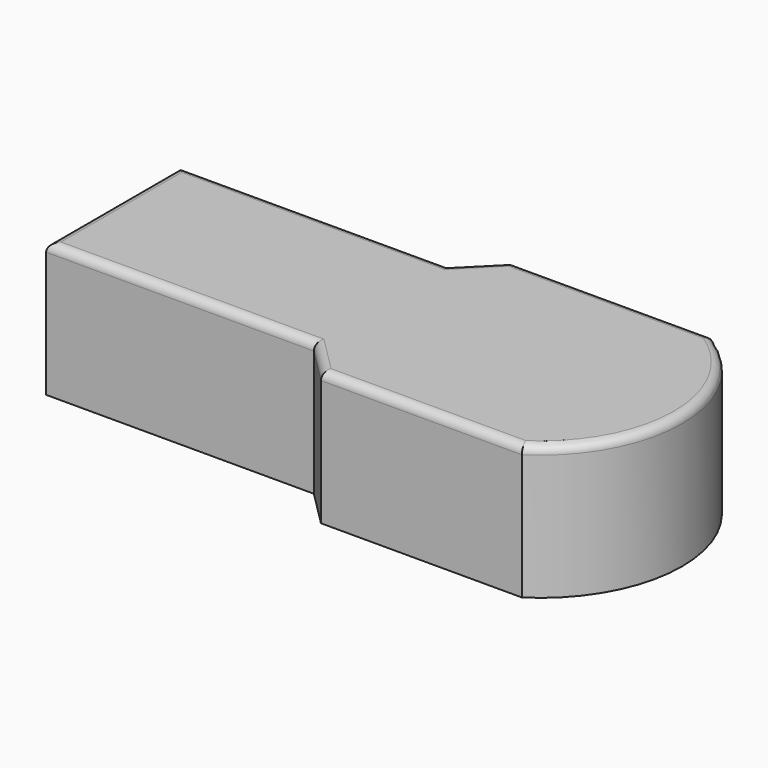
from build123d import *

# Parameters (mm, degrees)
F1_DEPTH = 25.4
F2_R     = 1.5748


with BuildPart() as f1:
    # F0 (on Top) → F1 (new body)
    with BuildSketch(Plane.XY):
        with BuildLine():
            Line((-41.113433, 16.30855), (-41.113433, -15.44145))
            Line((-41.113433, -15.44145), (9.686567, -15.44145))
            Line((9.686567, -15.44145), (16.421759, -22.176642))
            Line((16.421759, -22.176642), (54.521759, -22.176642))
            ThreePointArc((54.521759, -22.176642), (66.836567, 0.43355), (54.521759, 23.043742))
            Line((54.521759, 23.043742), (16.421759, 23.043742))
            Line((16.421759, 23.043742), (9.686567, 16.30855))
            Line((9.686567, 16.30855), (-41.113433, 16.30855))
        make_face()
    extrude(amount=F1_DEPTH)

    # F2
    f2_edges = [f1.edges().sort_by_distance(p)[0] for p in [
        (35.471759, 23.043742, 25.4),
        (13.054163, 19.676146, 25.4),
        (-15.713433, 16.30855, 25.4),
        (-41.113433, 0.43355, 25.4),
        (-15.713433, -15.44145, 25.4),
        (13.054163, -18.809046, 25.4),
        (35.471759, -22.176642, 25.4),
        (66.836567, 0.43355, 25.4),
    ]]
    fillet(f2_edges, radius=F2_R)


solid = f1.part
